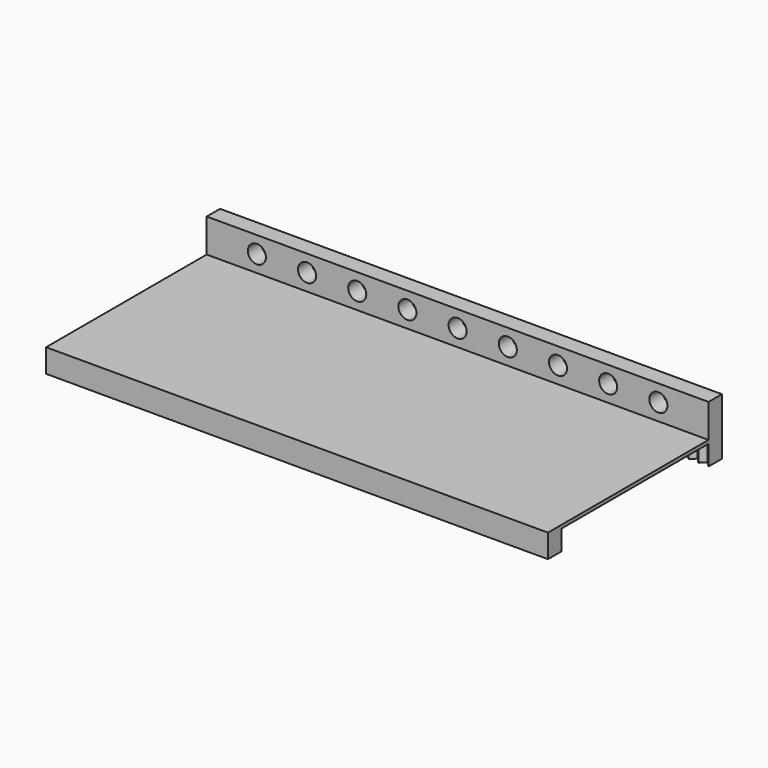
from build123d import *

# Parameters (mm, degrees)
F0_W     = 150
F0_H     = 65
F1_DEPTH = 1
F3_DEPTH = 6
F4_W     = 150
F4_H     = 5
F5_DEPTH = 10
F6_R     = 2.7
F7_DEPTH = 25


with BuildPart() as f1:
    # F0 (on Top) → F1 (new body)
    with BuildSketch(Plane.XY):
        Rectangle(F0_W, F0_H)
    extrude(amount=F1_DEPTH)

    # F2 (on face) → F3 (join)
    with BuildSketch(Plane(origin=(0, 0, 0), x_dir=(1, 0, 0), z_dir=(0, 0, -1))):
        Polygon((-75, -32.5), (75, -32.5), (75, -27.5), (73.5, -29), (72, -27.5), (70.5, -29), (69, -27.5), (67.5, -29), (66, -27.5), (64.5, -29), (63, -27.5), (61.5, -29), (60, -27.5), (58.5, -29), (57, -27.5), (55.5, -29), (54, -27.5), (52.5, -29), (51, -27.5), (49.5, -29), (48, -27.5), (46.5, -29), (45, -27.5), (43.5, -29), (42, -27.5), (40.5, -29), (39, -27.5), (37.5, -29), (36, -27.5), (34.5, -29), (33, -27.5), (31.5, -29), (30, -27.5), (28.5, -29), (27, -27.5), (25.5, -29), (24, -27.5), (22.5, -29), (21, -27.5), (19.5, -29), (18, -27.5), (16.5, -29), (15, -27.5), (13.5, -29), (12, -27.5), (10.5, -29), (9, -27.5), (7.5, -29), (6, -27.5), (4.5, -29), (3, -27.5), (1.5, -29), (0, -27.5), (-1.5, -29), (-3, -27.5), (-4.5, -29), (-6, -27.5), (-7.5, -29), (-9, -27.5), (-10.5, -29), (-12, -27.5), (-13.5, -29), (-15, -27.5), (-16.5, -29), (-18, -27.5), (-19.5, -29), (-21, -27.5), (-22.5, -29), (-24, -27.5), (-25.5, -29), (-27, -27.5), (-28.5, -29), (-30, -27.5), (-31.5, -29), (-33, -27.5), (-34.5, -29), (-36, -27.5), (-37.5, -29), (-39, -27.5), (-40.5, -29), (-42, -27.5), (-43.5, -29), (-45, -27.5), (-46.5, -29), (-48, -27.5), (-49.5, -29), (-51, -27.5), (-52.5, -29), (-54, -27.5), (-55.5, -29), (-57, -27.5), (-58.5, -29), (-60, -27.5), (-61.5, -29), (-63, -27.5), (-64.5, -29), (-66, -27.5), (-67.5, -29), (-69, -27.5), (-70.5, -29), (-72, -27.5), (-73.5, -29), (-75, -27.5), align=None)
        Polygon((75, 27.5), (75, 32.5), (-75, 32.5), (-75, 27.5), (-73.5, 29), (-72, 27.5), (-70.5, 29), (-69, 27.5), (-67.5, 29), (-66, 27.5), (-64.5, 29), (-63, 27.5), (-61.5, 29), (-60, 27.5), (-58.5, 29), (-57, 27.5), (-55.5, 29), (-54, 27.5), (-52.5, 29), (-51, 27.5), (-49.5, 29), (-48, 27.5), (-46.5, 29), (-45, 27.5), (-43.5, 29), (-42, 27.5), (-40.5, 29), (-39, 27.5), (-37.5, 29), (-36, 27.5), (-34.5, 29), (-33, 27.5), (-31.5, 29), (-30, 27.5), (-28.5, 29), (-27, 27.5), (-25.5, 29), (-24, 27.5), (-22.5, 29), (-21, 27.5), (-19.5, 29), (-18, 27.5), (-16.5, 29), (-15, 27.5), (-13.5, 29), (-12, 27.5), (-10.5, 29), (-9, 27.5), (-7.5, 29), (-6, 27.5), (-4.5, 29), (-3, 27.5), (-1.5, 29), (0, 27.5), (1.5, 29), (3, 27.5), (4.5, 29), (6, 27.5), (7.5, 29), (9, 27.5), (10.5, 29), (12, 27.5), (13.5, 29), (15, 27.5), (16.5, 29), (18, 27.5), (19.5, 29), (21, 27.5), (22.5, 29), (24, 27.5), (25.5, 29), (27, 27.5), (28.5, 29), (30, 27.5), (31.5, 29), (33, 27.5), (34.5, 29), (36, 27.5), (37.5, 29), (39, 27.5), (40.5, 29), (42, 27.5), (43.5, 29), (45, 27.5), (46.5, 29), (48, 27.5), (49.5, 29), (51, 27.5), (52.5, 29), (54, 27.5), (55.5, 29), (57, 27.5), (58.5, 29), (60, 27.5), (61.5, 29), (63, 27.5), (64.5, 29), (66, 27.5), (67.5, 29), (69, 27.5), (70.5, 29), (72, 27.5), (73.5, 29), align=None)
    extrude(amount=F3_DEPTH)

    # F4 (on face) → F5 (join)
    with BuildSketch(Plane.XY.offset(1)):
        with Locations((0, 30)):
            Rectangle(F4_W, F4_H)
    extrude(amount=F5_DEPTH)

    # F6 (on face) → F7 (cut)
    with BuildSketch(Plane.XZ.offset(-27.5)):
        with Locations((-60, 6)):
            Circle(F6_R)
        with Locations((-45, 6)):
            Circle(F6_R)
        with Locations((-30, 6)):
            Circle(F6_R)
        with Locations((-15, 6)):
            Circle(F6_R)
        with Locations((0, 6)):
            Circle(F6_R)
        with Locations((15, 6)):
            Circle(F6_R)
        with Locations((30, 6)):
            Circle(F6_R)
        with Locations((45, 6)):
            Circle(F6_R)
        with Locations((60, 6)):
            Circle(F6_R)
    extrude(amount=-F7_DEPTH, mode=Mode.SUBTRACT)


solid = f1.part
